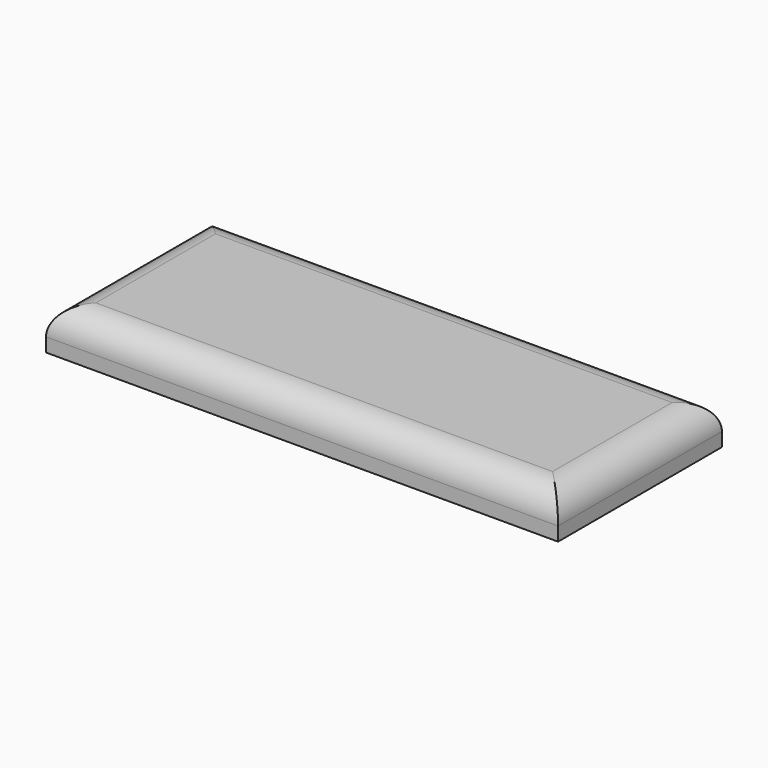
from build123d import *

# Parameters (mm, degrees)
F0_W     = 46.99
F0_H     = 18.796
F1_DEPTH = 6.096
F2_R     = 2.54
F3_W     = 46.99
F3_H     = 18.796
F3_R     = 4.445
F4_DEPTH = 3.556
F4_TAPER = -8
F5_R     = 3.175
F6_DEPTH = 2.032
F6_TAPER = -5
F7_DEPTH = 1.27


with BuildPart() as f1:
    # F0 (on Top) → F1 (new body)
    with BuildSketch(Plane.XY):
        Rectangle(F0_W, F0_H)
    extrude(amount=F1_DEPTH)

    # F2
    f2_edges = [f1.edges().sort_by_distance(p)[0] for p in [
        (-23.495, 0, 6.096),
        (23.495, 0, 6.096),
        (0, -9.398, 6.096),
        (0, 9.398, 6.096),
    ]]
    fillet(f2_edges, radius=F2_R)

    # F3 (on face) → F4 (cut)
    with BuildSketch(Plane(origin=(0, 0, 0), x_dir=(1, 0, 0), z_dir=(0, 0, -1))):
        Rectangle(F3_W, F3_H)
        Circle(F3_R, mode=Mode.SUBTRACT)
    extrude(amount=-F4_DEPTH, taper=F4_TAPER, mode=Mode.SUBTRACT)

    # F5 (on face) → F6 (cut)
    with BuildSketch(Plane(origin=(0, 0, 0), x_dir=(1, 0, 0), z_dir=(0, 0, -1))):
        Circle(F5_R)
    extrude(amount=-F6_DEPTH, taper=F6_TAPER, mode=Mode.SUBTRACT)

    # F7 (add): a face of the model
    f7_faces = [f1.faces().sort_by_distance(p)[0] for p in [
        (22.9889022114, 0, 3.556),
    ]]
    extrude(f7_faces, amount=F7_DEPTH)


solid = f1.part
